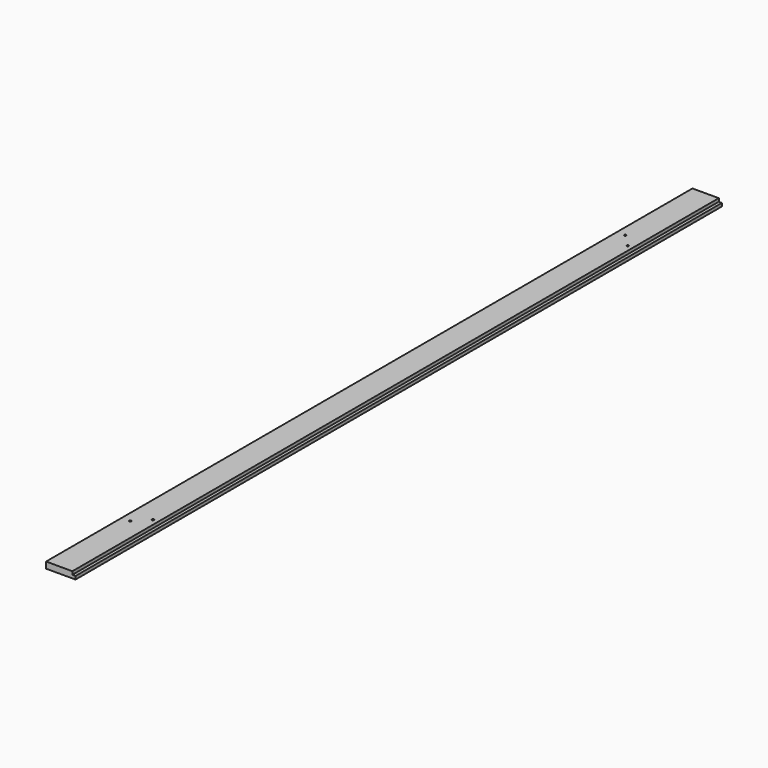
from build123d import *

# Parameters (mm, degrees)
F0_W     = 88.9
F0_H     = 19.05
F1_DEPTH = 1219.2
F2_W     = 44.159885
F2_H     = 21.999364
F3_DEPTH = 2438.401
F5_R     = 3.175
F6_DEPTH = 19.05


with BuildPart() as f1:
    # F0 (on Front) → F1 (new body, symmetric)
    with BuildSketch(Plane.XZ):
        Rectangle(F0_W, F0_H)
    extrude(amount=F1_DEPTH, both=True)

    # F2 (on face) → F3 (cut, through all)
    with BuildSketch(Plane.XZ.offset(1219.2)):
        with Locations((57.004942, 10.999682)):
            Rectangle(F2_W, F2_H)
    extrude(amount=-F3_DEPTH, mode=Mode.SUBTRACT)

    # F5 (on face) → F6 (cut, through all)
    with BuildSketch(Plane.XY.offset(9.525)):
        with Locations((19.05, -895.35)):
            Circle(F5_R)
        with Locations((-19.05, -933.45)):
            Circle(F5_R)
        with Locations((-19.05, 933.45)):
            Circle(F5_R)
        with Locations((19.05, 895.35)):
            Circle(F5_R)
    extrude(amount=-F6_DEPTH, mode=Mode.SUBTRACT)


solid = f1.part
